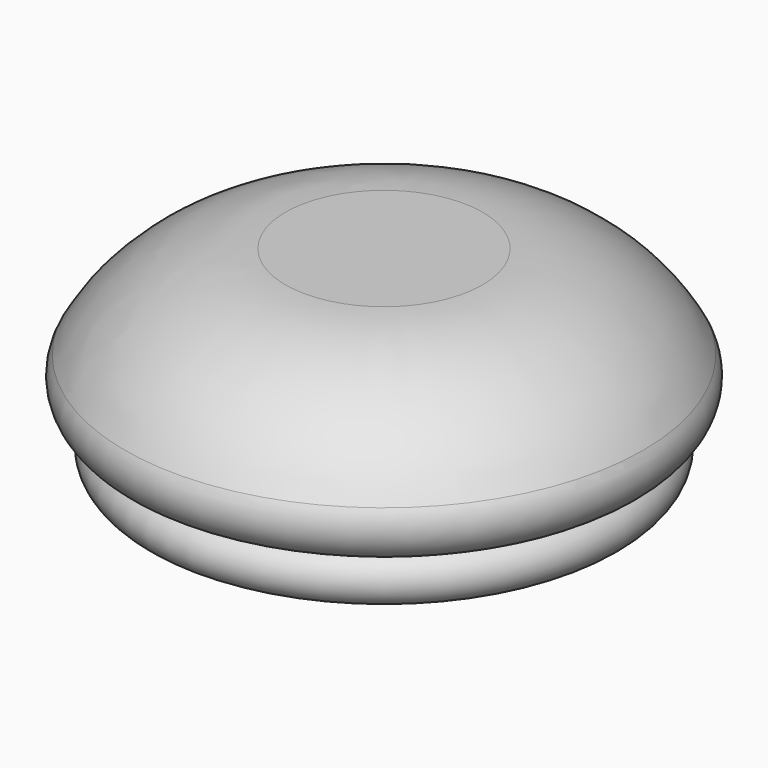
from build123d import *


with BuildPart() as f1:
    # F0 (on Front) → F1 (revolve)
    with BuildSketch(Plane.XZ):
        with BuildLine():
            Line((8, 0), (0, 0))
            Line((0, 0), (0, -16))
            Line((0, -16), (17.610231, -16))
            ThreePointArc((17.610231, -16), (19.603433, -14.164751), (17.938614, -12.027143))
            ThreePointArc((17.938614, -12.027143), (20.891289, -10.784804), (21.038985, -7.584822))
            ThreePointArc((21.038985, -7.584822), (15.542292, -2.034128), (8, 0))
        make_face()
    revolve(axis=Axis((0, 0, -8), (0, 0, 1)))


solid = f1.part
